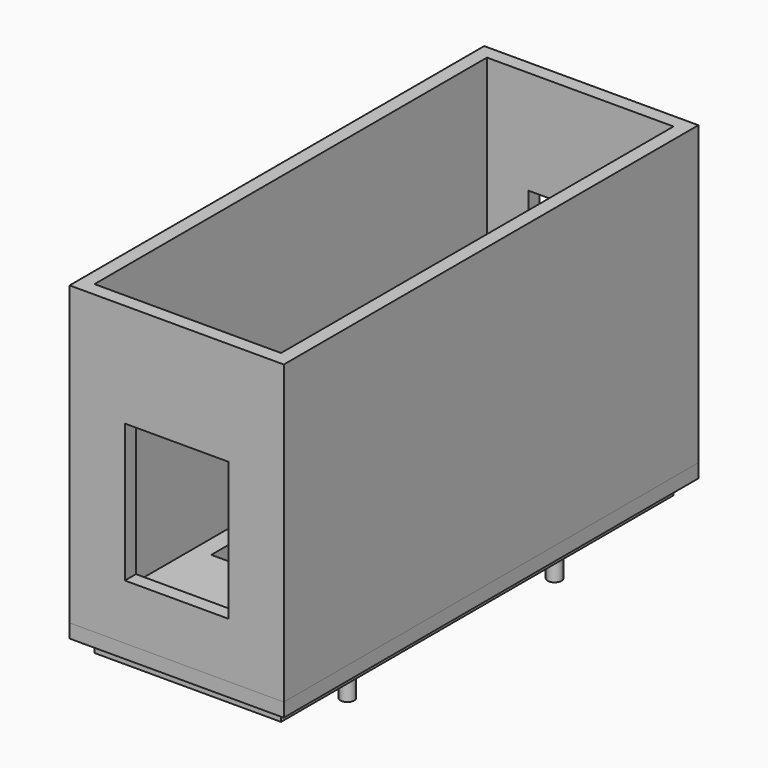
from build123d import *

# Parameters (mm, degrees)
SKETCH_W        = 31
SKETCH_H        = 75
PAD_DEPTH       = 45
SKETCH001_W     = 15
SKETCH001_H     = 20
POCKET_DEPTH    = 75
SKETCH002_W     = 27
SKETCH002_H     = 71
POCKET001_DEPTH = 41
SKETCH003_W     = 22
SKETCH003_H     = 53
POCKET002_DEPTH = 3
SKETCH004_W     = 8
SKETCH004_H     = 4.5
POCKET003_DEPTH = 5
SKETCH005_W     = 31
SKETCH005_H     = 75
PAD001_DEPTH    = 2
SKETCH006_W     = 27
SKETCH006_H     = 71
PAD002_DEPTH    = 2
SKETCH007_W     = 15
SKETCH007_H     = 31
POCKET004_DEPTH = 5
SKETCH008_R     = 1
PAD003_DEPTH    = 5
SKETCH009_W     = 31
SKETCH009_H     = 75
PAD004_DEPTH    = 45
SKETCH010_W     = 15
SKETCH010_H     = 20
POCKET005_DEPTH = 75
SKETCH011_W     = 27
SKETCH011_H     = 71
POCKET006_DEPTH = 41
SKETCH012_W     = 22
SKETCH012_H     = 53
POCKET007_DEPTH = 3
SKETCH013_W     = 8
SKETCH013_H     = 4.5
POCKET008_DEPTH = 5
SKETCH014_W     = 31
SKETCH014_H     = 75
PAD005_DEPTH    = 2
SKETCH015_W     = 27
SKETCH015_H     = 71
PAD006_DEPTH    = 2


with BuildPart() as body:
    # Sketch → Pad (new body)
    with BuildSketch(Plane.XY):
        Rectangle(SKETCH_W, SKETCH_H)
    extrude(amount=PAD_DEPTH)

    # Sketch001 (on Face3 of Pad) → Pocket (cut)
    with BuildSketch(Plane.XZ.offset(37.5)):
        with Locations((0, 20)):
            Rectangle(SKETCH001_W, SKETCH001_H)
    extrude(amount=-POCKET_DEPTH, mode=Mode.SUBTRACT)

    # Sketch002 (on Face4 of Pocket) → Pocket001 (cut)
    with BuildSketch(Plane.XY.offset(45)):
        Rectangle(SKETCH002_W, SKETCH002_H)
    extrude(amount=-POCKET001_DEPTH, mode=Mode.SUBTRACT)

    # Sketch003 (on Face19 of Pocket001) → Pocket002 (cut)
    with BuildSketch(Plane.XY.offset(4)):
        with Locations((0, 9)):
            Rectangle(SKETCH003_W, SKETCH003_H)
    extrude(amount=-POCKET002_DEPTH, mode=Mode.SUBTRACT)

    # Sketch004 (on Face14 of Pocket002) → Pocket003 (cut)
    with BuildSketch(Plane.XZ.offset(-35.5)):
        with Locations((0, 3.25)):
            Rectangle(SKETCH004_W, SKETCH004_H)
    extrude(amount=-POCKET003_DEPTH, mode=Mode.SUBTRACT)


with BuildPart() as display_lid:
    # Sketch005 → Pad001 (new body)
    with BuildSketch(Plane.XY):
        Rectangle(SKETCH005_W, SKETCH005_H)
    extrude(amount=PAD001_DEPTH)

    # Sketch006 (on Face5 of Pad001) → Pad002 (join)
    with BuildSketch(Plane(origin=(0, 0, 0), x_dir=(1, 0, 0), z_dir=(0, 0, -1))):
        Rectangle(SKETCH006_W, SKETCH006_H)
    extrude(amount=PAD002_DEPTH)

    # Sketch007 (on Face11 of Pad002) → Pocket004 (cut)
    with BuildSketch(Plane(origin=(0, 0, -2), x_dir=(1, 0, 0), z_dir=(0, 0, -1))):
        Rectangle(SKETCH007_W, SKETCH007_H)
    extrude(amount=-POCKET004_DEPTH, mode=Mode.SUBTRACT)

    # Sketch008 (on Face15 of Pocket004) → Pad003 (join)
    with BuildSketch(Plane(origin=(0, 0, -2), x_dir=(1, 0, 0), z_dir=(0, 0, -1))):
        with Locations((-9.6875, 18.75)):
            Circle(SKETCH008_R)
        with Locations((9.6875, 18.75)):
            Circle(SKETCH008_R)
        with Locations((9.6875, -18.75)):
            Circle(SKETCH008_R)
        with Locations((-9.6875, -18.75)):
            Circle(SKETCH008_R)
    extrude(amount=PAD003_DEPTH)


with BuildPart() as body002:
    # Sketch009 → Pad004 (new body)
    with BuildSketch(Plane.XY):
        Rectangle(SKETCH009_W, SKETCH009_H)
    extrude(amount=PAD004_DEPTH)

    # Sketch010 (on Face3 of Pad004) → Pocket005 (cut)
    with BuildSketch(Plane.XZ.offset(37.5)):
        with Locations((0, 20)):
            Rectangle(SKETCH010_W, SKETCH010_H)
    extrude(amount=-POCKET005_DEPTH, mode=Mode.SUBTRACT)

    # Sketch011 (on Face4 of Pocket005) → Pocket006 (cut)
    with BuildSketch(Plane.XY.offset(45)):
        Rectangle(SKETCH011_W, SKETCH011_H)
    extrude(amount=-POCKET006_DEPTH, mode=Mode.SUBTRACT)

    # Sketch012 (on Face19 of Pocket006) → Pocket007 (cut)
    with BuildSketch(Plane.XY.offset(4)):
        with Locations((0, 9)):
            Rectangle(SKETCH012_W, SKETCH012_H)
    extrude(amount=-POCKET007_DEPTH, mode=Mode.SUBTRACT)

    # Sketch013 (on Face14 of Pocket007) → Pocket008 (cut)
    with BuildSketch(Plane.XZ.offset(-35.5)):
        with Locations((0, 3.25)):
            Rectangle(SKETCH013_W, SKETCH013_H)
    extrude(amount=-POCKET008_DEPTH, mode=Mode.SUBTRACT)


with BuildPart() as solid_lid:
    # Sketch014 → Pad005 (new body)
    with BuildSketch(Plane.XY):
        Rectangle(SKETCH014_W, SKETCH014_H)
    extrude(amount=PAD005_DEPTH)

    # Sketch015 (on Face5 of Pad005) → Pad006 (join)
    with BuildSketch(Plane(origin=(0, 0, 0), x_dir=(1, 0, 0), z_dir=(0, 0, -1))):
        Rectangle(SKETCH015_W, SKETCH015_H)
    extrude(amount=PAD006_DEPTH)


solid = Compound([body.part, display_lid.part, body002.part, solid_lid.part])
